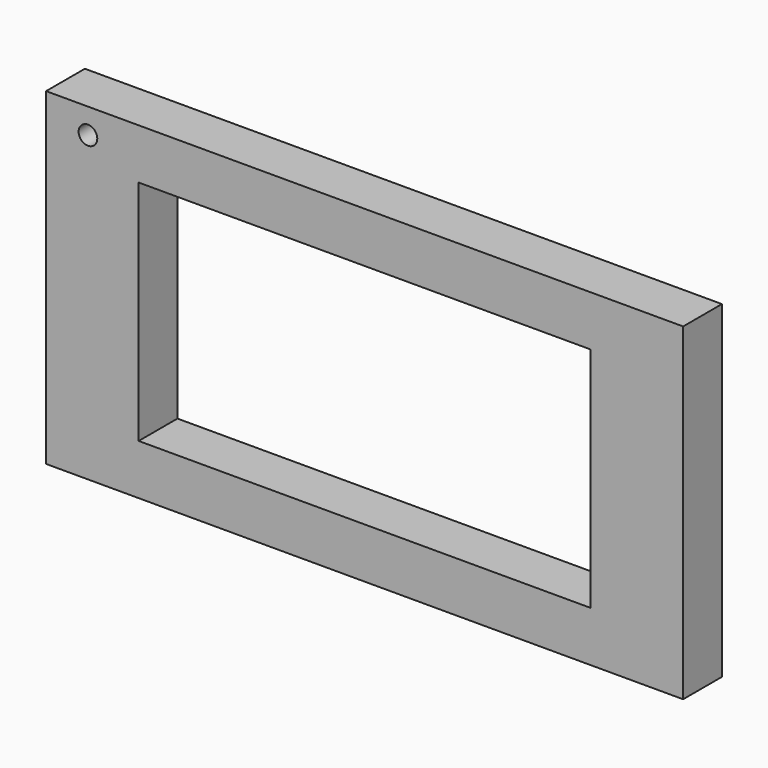
from build123d import *

# Parameters (mm, degrees)
SKETCH_W        = 34.16
SKETCH_H        = 17.6
PAD_DEPTH       = 2.6
SKETCH002_W     = 24.23
SKETCH002_H     = 12.2
POCKET_DEPTH    = 2.6
SKETCH003_R     = 0.5
SKETCH003_W     = 2.01
SKETCH003_H     = 3.5
POCKET001_DEPTH = 5


with BuildPart() as part:
    # Sketch → Pad (new body)
    with BuildSketch(Plane.XZ):
        with Locations((17.08, 8.8)):
            Rectangle(SKETCH_W, SKETCH_H)
    extrude(amount=PAD_DEPTH)

    # Sketch002 (on Face6 of Pad) → Pocket (cut)
    with BuildSketch(Plane.XZ.offset(2.6)):
        with Locations((17.08, 8.8)):
            Rectangle(SKETCH002_W, SKETCH002_H)
    extrude(amount=-POCKET_DEPTH, mode=Mode.SUBTRACT)

    # Sketch003 (on Face4 of Pocket) → Pocket001 (cut)
    with BuildSketch(Plane(origin=(0, 0, 0), x_dir=(1, 0, 0), z_dir=(0, 1, 0))):
        with Locations((2.245, -16.25)):
            Circle(SKETCH003_R)
        with Locations((27.953742, -8.544061)):
            Rectangle(SKETCH003_W, SKETCH003_H)
    extrude(amount=-POCKET001_DEPTH, mode=Mode.SUBTRACT)


solid = part.part
